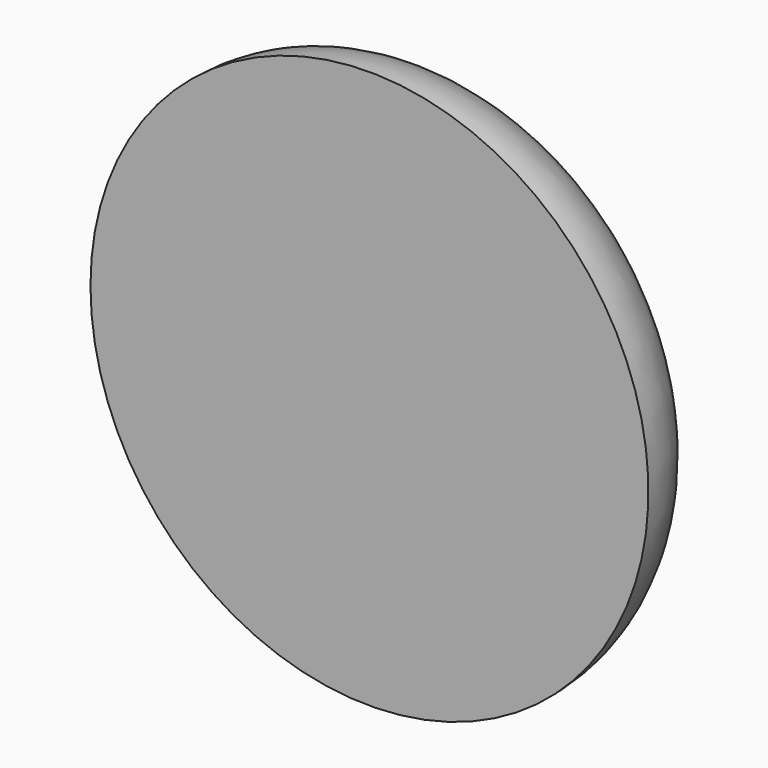
from build123d import *


with BuildPart() as f1:
    # F0 (on Top) → F1 (revolve)
    with BuildSketch(Plane.XY):
        with BuildLine():
            Line((-11, 0), (0, 0))
            Line((0, 0), (0, 5))
            add(Edge.make_bspline(
                [(-11, 0), (-11, 2), (-8.2609202721, 4.8760679014), (-2.5, 5), (0, 5)],
                knots=[0, 0, 0, 0, 0.4405629027, 1, 1, 1, 1], degree=3))
        make_face()
    revolve(axis=Axis((0, 2.5, 0), (0, 1, 0)))


solid = f1.part
